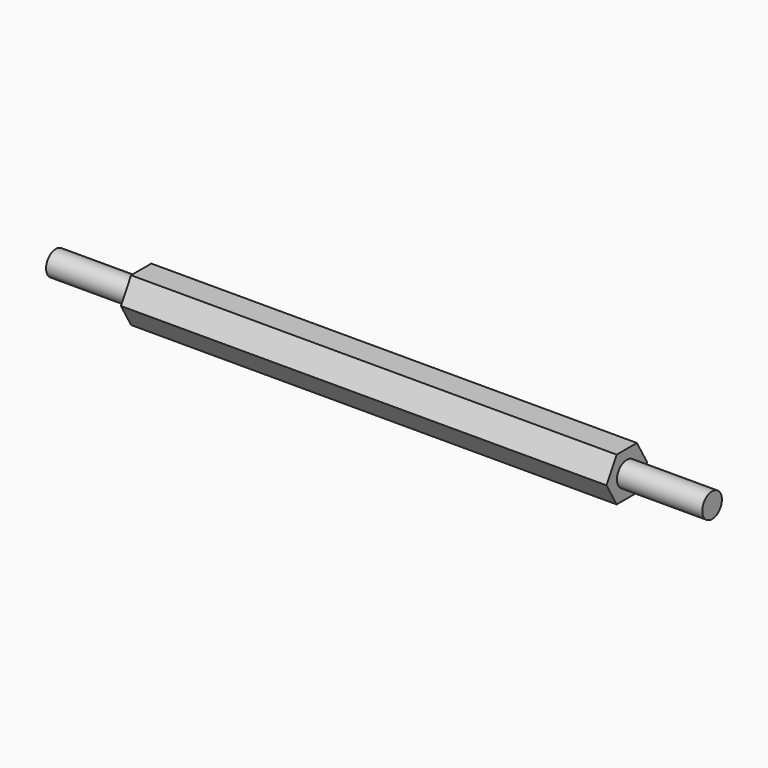
from build123d import *

# Parameters (mm, degrees)
F1_DEPTH = 46.99
F2_R     = 2.375
F3_DEPTH = 63.5


with BuildPart() as f1:
    # F0 (on Right) → F1 (new body, symmetric)
    with BuildSketch(Plane.YZ):
        Polygon((2.45, -4.243524), (4.9, 0), (2.45, 4.243524), (-2.45, 4.243524), (-4.9, 0), (-2.45, -4.243524), align=None)
    extrude(amount=F1_DEPTH, both=True)

    # F2 (on Right) → F3 (join, symmetric)
    with BuildSketch(Plane.YZ):
        Circle(F2_R)
    extrude(amount=F3_DEPTH, both=True)


solid = f1.part
